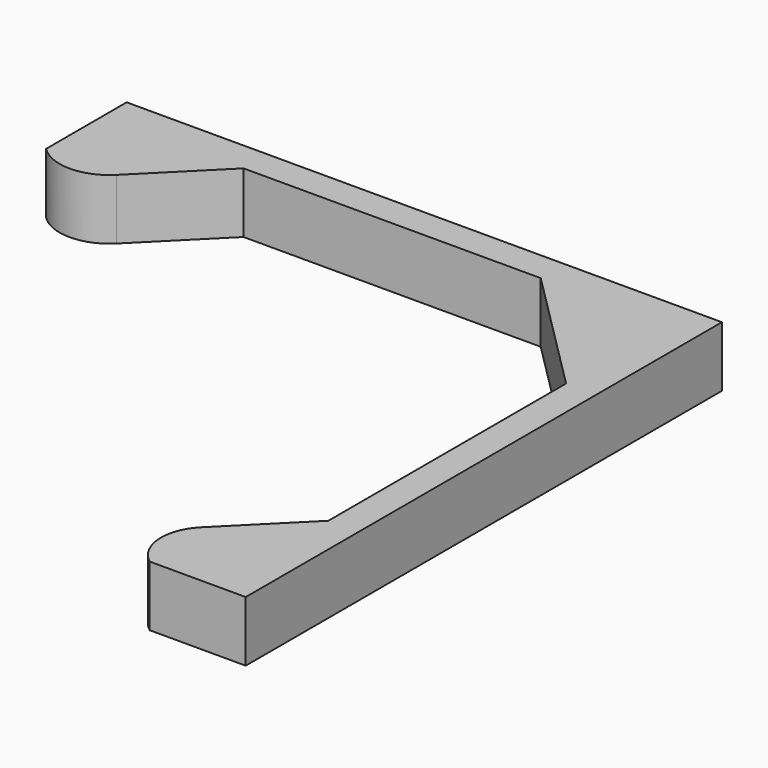
from build123d import *

# Parameters (mm, degrees)
F1_DEPTH = 3


with BuildPart() as f1:
    # F0 (on Top) → F1 (new body)
    with BuildSketch(Plane.XY):
        with BuildLine():
            Line((-8, 15), (-0.625, 15))
            Line((-0.625, 15), (6.75, 15))
            Line((6.75, 15), (13.042543, 8.707457))
            Line((13.042543, 8.707457), (13.042543, 1.332457))
            Line((13.042543, 1.332457), (13.042543, -6.042543))
            Line((13.042543, -6.042543), (9.542543, -9.542543))
            ThreePointArc((9.542543, -9.542543), (8.864734, -11.345012), (9.773969, -13.042543))
            Line((9.773969, -13.042543), (14.542543, -13.042543))
            Line((14.542543, -13.042543), (14.542543, 16.5))
            Line((14.542543, 16.5), (-15, 16.5))
            Line((-15, 16.5), (-15, 11.5))
            ThreePointArc((-15, 11.5), (-13.25, 10.775126), (-11.5, 11.5))
            Line((-11.5, 11.5), (-8, 15))
        make_face()
    extrude(amount=F1_DEPTH)


solid = f1.part
